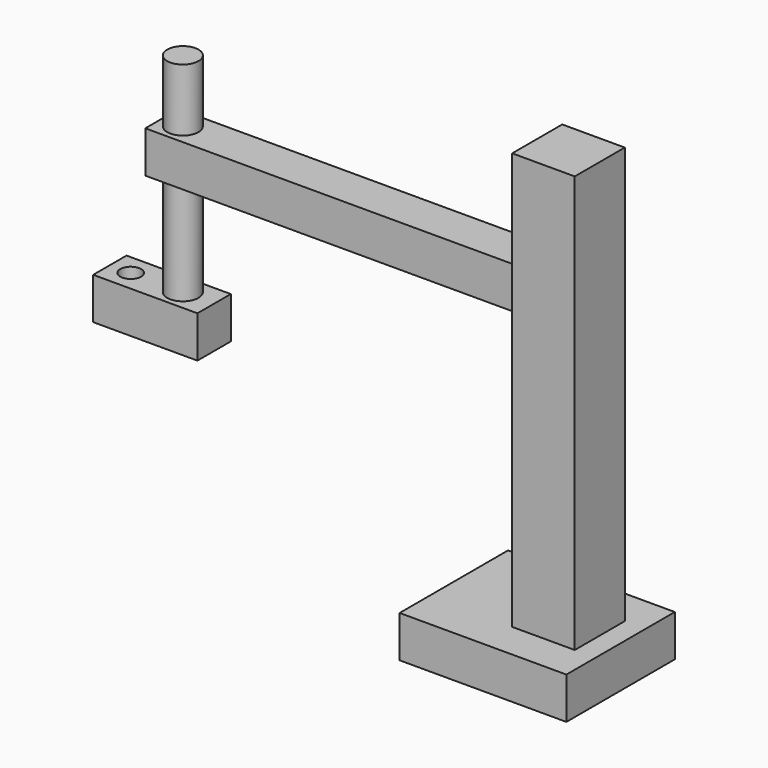
from build123d import *

# Parameters (mm, degrees)
F0_W      = 8
F0_H      = 6.5
F1_DEPTH  = 2
F3_DEPTH  = 20
F4_W      = 2
F4_H      = 2
F5_DEPTH  = 18
F6_R      = 0.75
F7_DEPTH  = 5
F8_W      = 5
F8_H      = 2
F8_R      = 0.75
F9_DEPTH  = 2
F10_R     = 0.5
F11_DEPTH = 25


with BuildPart() as f1:
    # F0 (on Top) → F1 (new body)
    with BuildSketch(Plane.XY):
        Rectangle(F0_W, F0_H)
    extrude(amount=F1_DEPTH)

    # F2 (on face) → F3 (join)
    with BuildSketch(Plane.XY.offset(2)):
        Polygon((0, 1.5), (0, 0), (0, -1.5), (3, -1.5), (3, 1.5), align=None)
    extrude(amount=F3_DEPTH)

    # F4 (on Right) → F5 (join)
    with BuildSketch(Plane.YZ):
        with Locations((0, 16)):
            Rectangle(F4_W, F4_H)
    extrude(amount=-F5_DEPTH)

    # F6 (on face) → F7 (join, symmetric)
    with BuildSketch(Plane(origin=(0, 0, 15), x_dir=(1, 0, 0), z_dir=(0, 0, -1))):
        with Locations((-17, 0)):
            Circle(F6_R)
    extrude(amount=F7_DEPTH, both=True)


with BuildPart() as f9:
    # F8 (on face) → F9 (new body)
    with BuildSketch(Plane(origin=(0, 0, 10), x_dir=(1, 0, 0), z_dir=(0, 0, -1))):
        with Locations((-18, 0)):
            Rectangle(F8_W, F8_H)
        with Locations((-17, 0)):
            Circle(F8_R, mode=Mode.SUBTRACT)
    extrude(amount=F9_DEPTH)

    # F10 (on face) → F11 (cut)
    with BuildSketch(Plane.XY.offset(10)):
        with Locations((-19.5, 0)):
            Circle(F10_R)
    extrude(amount=-F11_DEPTH, mode=Mode.SUBTRACT)


solid = Compound([f1.part, f9.part])
